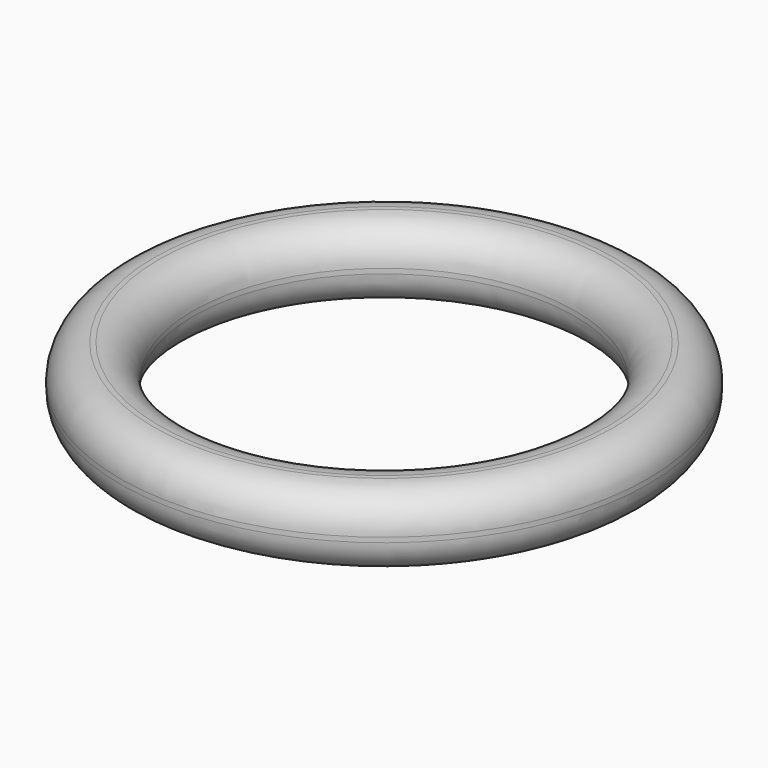
from build123d import *

# Parameters (mm, degrees)
CYLINDER_R        = 7.85
CYLINDER_DEPTH    = 10
CYLINDER001_R     = 10.85
CYLINDER001_DEPTH = 3
FILLET_R          = 1.4


with BuildPart() as cylinder:
    # Cylinder → Cylinder (new body)
    with BuildSketch(Plane(origin=(7, 0, 0), x_dir=(1, 0, 0), z_dir=(0, 0, 1))):
        Circle(CYLINDER_R)
    extrude(amount=CYLINDER_DEPTH)


with BuildPart() as fillet_body:
    # Cylinder001 → Cylinder001 (new body)
    with BuildSketch(Plane(origin=(7, 0, 0), x_dir=(1, 0, 0), z_dir=(0, 0, 1))):
        Circle(CYLINDER001_R)
    extrude(amount=CYLINDER001_DEPTH)

    # Cut: cut Cylinder
    add(cylinder.part, mode=Mode.SUBTRACT)

    # Fillet
    fillet_edges = [fillet_body.edges().sort_by_distance(p)[0] for p in [
        (-3.85, 0, 3),
        (-3.85, 0, 0),
        (-0.85, 0, 3),
        (-0.85, 0, 0),
    ]]
    fillet(fillet_edges, radius=FILLET_R)


with BuildPart() as fillet_body_1:
    # Fillet placement: moved
    add(fillet_body.part.moved(Location((13, 0, 0))))


solid = fillet_body_1.part
